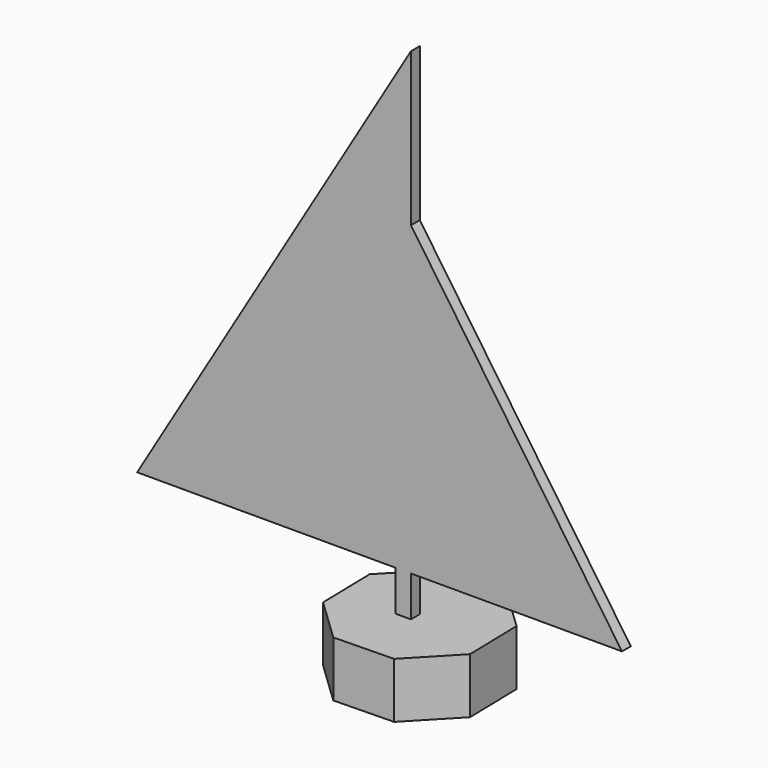
from build123d import *

# Parameters (mm, degrees)
F1_DEPTH = 10
F3_DEPTH = 2


with BuildPart() as f1:
    # F0 (on Top) → F1 (new body)
    with BuildSketch(Plane.XY):
        Polygon((-5.680988, 12.879334), (-13.124129, 5.089999), (-12.879334, -5.680988), (-5.089999, -13.124129), (5.680988, -12.879334), (13.124129, -5.089999), (12.879334, 5.680988), (5.089999, 13.124129), align=None)
    extrude(amount=-F1_DEPTH)


with BuildPart() as f3:
    # F2 (on Front) → F3 (new body)
    with BuildSketch(Plane.XZ):
        Polygon((-2.808472, 0), (0, 0), (0, 7.280002), (0, 14.560004), (20.74383, 14.560004), (0, 42.571541), (0, 55.319596), (-31.359844, 14.560004), (-5.616945, 14.560004), (-2.808472, 7.280002), align=None)
        Polygon((0, 14.560004), (0, 7.280002), (38.019471, 7.280002), (0, 62.504523), (0, 90.102866), (-49.321156, 7.280002), (-2.808472, 7.280002), (-5.616945, 14.560004), (-31.359844, 14.560004), (0, 55.319596), (0, 42.571541), (20.74383, 14.560004), align=None)
    extrude(amount=F3_DEPTH)


solid = Compound([f1.part, f3.part])
